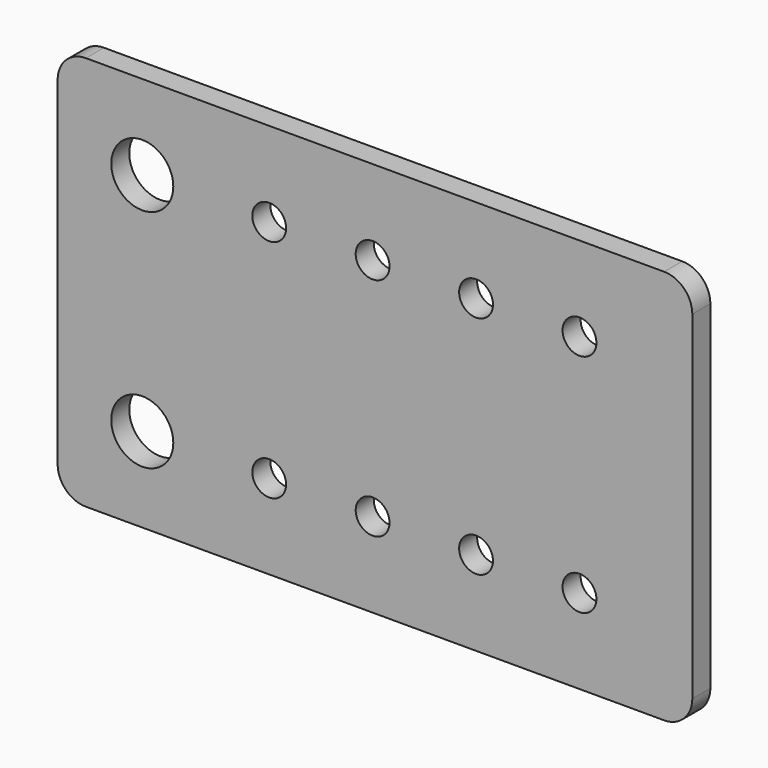
from build123d import *

# Parameters (mm, degrees)
SKETCH_W            = 22.5
SKETCH_H            = 14
PAD_DEPTH           = 0.8
SKETCH001_R         = 1.1
POCKET_DEPTH        = 5
FILLET_R            = 1
SKETCH002_R         = 0.6
POCKET001_DEPTH     = 5
LINEARPATTERN_COUNT = 4
LINEARPATTERN_PITCH = 3.666667


with BuildPart() as part:
    # Sketch → Pad (new body)
    with BuildSketch(Plane.XZ):
        with Locations((11.25, 7)):
            Rectangle(SKETCH_W, SKETCH_H)
    extrude(amount=PAD_DEPTH)

    # Sketch001 (on Face6 of Pad) → Pocket (cut)
    with BuildSketch(Plane.XZ.offset(0.8)):
        with Locations((3, 11)):
            Circle(SKETCH001_R)
        with Locations((3, 3)):
            Circle(SKETCH001_R)
    extrude(amount=-POCKET_DEPTH, mode=Mode.SUBTRACT)

    # Fillet
    fillet_edges = [part.edges().sort_by_distance(p)[0] for p in [
        (0, -0.4, 14),
        (22.5, -0.4, 14),
        (22.5, -0.4, 0),
        (0, -0.4, 0),
    ]]
    fillet(fillet_edges, radius=FILLET_R)

    # Sketch002 (on Face5 of Fillet) → Pocket001 (cut)
    with BuildSketch(Plane.XZ.offset(0.8)):
        with Locations((7.5, 11)):
            Circle(SKETCH002_R)
        with Locations((7.5, 3)):
            Circle(SKETCH002_R)
    pocket001 = extrude(amount=-POCKET001_DEPTH, mode=Mode.SUBTRACT)

    # LinearPattern: Pocket001 ×4
    with Locations(*[(i * LINEARPATTERN_PITCH, 0, 0) for i in range(1, LINEARPATTERN_COUNT)]):
        add(pocket001, mode=Mode.SUBTRACT)


solid = part.part
